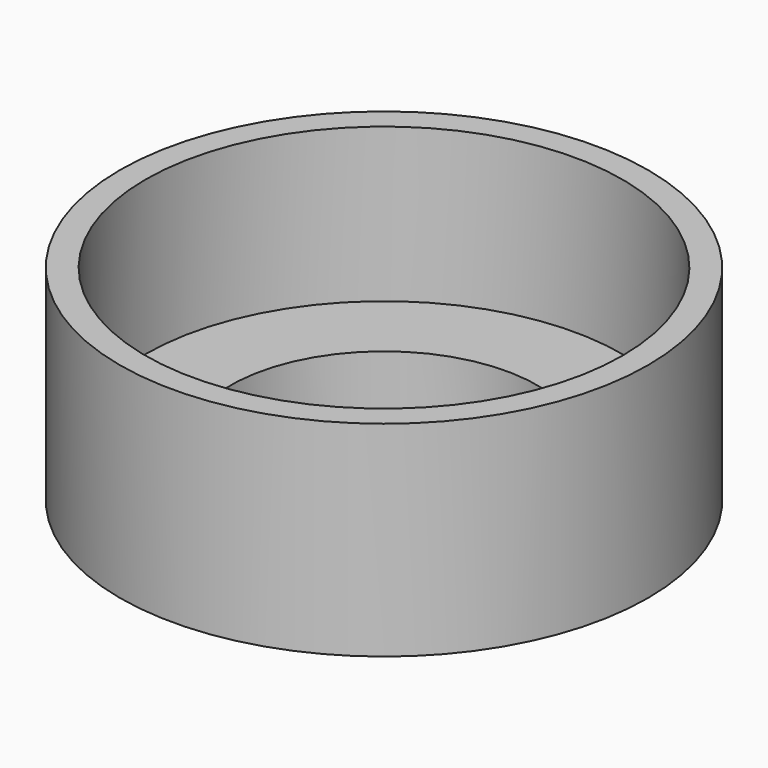
from build123d import *

# Parameters (mm, degrees)
F0_W = 0.635
F0_H = 3.81


with BuildPart() as f1:
    # F0 (on Front) → F1 (revolve)
    with BuildSketch(Plane.XZ):
        Polygon((3.81, 1.27), (3.81, 0), (6.545987, 0), (6.545987, 1.27), (5.910987, 1.27), align=None)
        with Locations((6.228487, 3.175)):
            Rectangle(F0_W, F0_H)
    revolve(axis=Axis((0, 0, 0.635), (0, 0, -1)))


solid = f1.part
